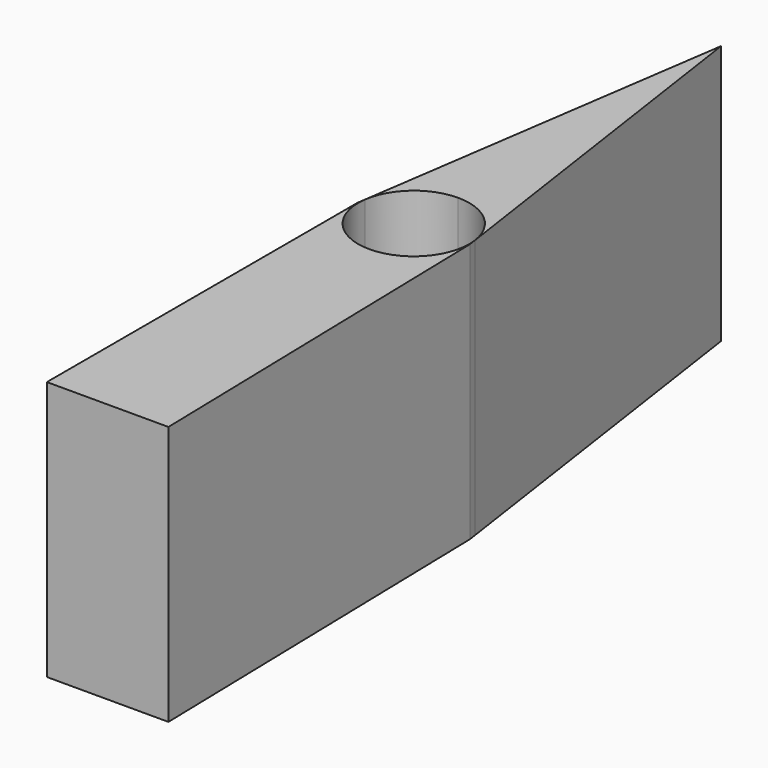
from build123d import *

# Parameters (mm, degrees)
F1_DEPTH = 50.8


with BuildPart() as f1:
    # F0 (on Top) → F1 (new body)
    with BuildSketch(Plane.XY):
        with BuildLine():
            Line((0, 10.8773541651), (0, 75.1670226455))
            Line((0, 75.1670226455), (-10.7628617284, 1.5740524288))
            ThreePointArc((-10.7628617284, 1.5740524288), (-7.113202791, 8.229166403), (0, 10.8773541651))
        make_face()
        with BuildLine():
            Line((10.7628617474, 1.5740522994), (0, 75.1670226455))
            Line((0, 75.1670226455), (0, 10.8773541651))
            ThreePointArc((0, 10.8773541651), (7.1132028405, 8.2291663602), (10.7628617474, 1.5740522994))
        make_face()
    extrude(amount=F1_DEPTH)


with BuildPart() as f1b:
    # F0 (on Top) → F1, piece 2 (new body)
    with BuildSketch(Plane.XY):
        with BuildLine():
            Line((10.9930645398, 0), (10.7628617474, 1.5740522994))
            ThreePointArc((10.7628617474, 1.5740522994), (10.8486933013, 0.7891053724), (10.8773541651, 0))
            ThreePointArc((10.8773541651, 0), (7.6914508915, -7.6914508915), (0, -10.8773541651))
            Line((0, -10.8773541651), (0, -75.974188745))
            Line((0, -75.974188745), (3.0148467049, -75.974188745))
            Line((3.0148467049, -75.974188745), (12.785279192, -75.974188745))
            Line((12.785279192, -75.974188745), (10.9930645398, 0))
        make_face()
        with BuildLine():
            ThreePointArc((0, -10.8773541651), (-8.229166403, -7.113202791), (-10.7628617284, 1.5740524288))
            Line((-10.7628617284, 1.5740524288), (-10.9930645398, 0))
            Line((-10.9930645398, 0), (-10.9930645398, -75.974188745))
            Line((-10.9930645398, -75.974188745), (0, -75.974188745))
            Line((0, -75.974188745), (0, -10.8773541651))
        make_face()
    extrude(amount=F1_DEPTH)


solid = Compound([f1.part, f1b.part])
